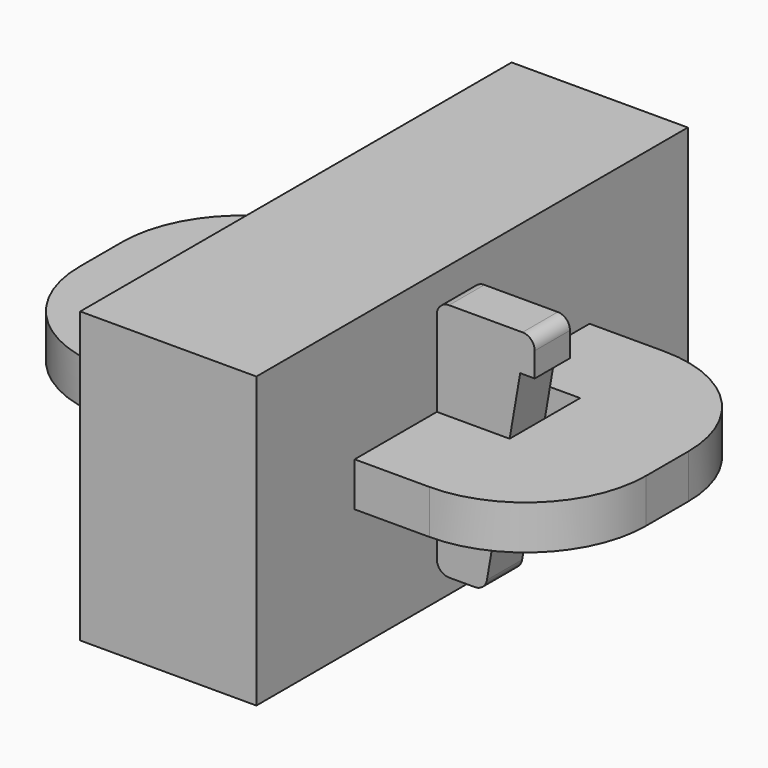
from build123d import *

# Parameters (mm, degrees)
F0_W      = 131.5
F0_H      = 36
F1_DEPTH  = 18
F3_DEPTH  = 36
F4_W      = 30.75
F4_H      = 36
F5_DEPTH  = 18
F7_DEPTH  = 25
F8_DEPTH  = 18
F9_R      = 49.2259593896
F11_DEPTH = 18


with BuildPart() as f1:
    # F0 (on Top) → F1 (new body)
    with BuildSketch(Plane.XY):
        with BuildLine():
            Line((-95.75, -60), (95.75, -60))
            ThreePointArc((95.75, -60), (131.1053390593, -45.3553390593), (145.75, -10))
            Line((145.75, -10), (145.75, 10))
            ThreePointArc((145.75, 10), (131.1053390593, 45.3553390593), (95.75, 60))
            Line((95.75, 60), (-95.75, 60))
            ThreePointArc((-95.75, 60), (-131.1053390593, 45.3553390593), (-145.75, 10))
            Line((-145.75, 10), (-145.75, -10))
            ThreePointArc((-145.75, -10), (-131.1053390593, -45.3553390593), (-95.75, -60))
        make_face()
        Rectangle(F0_W, F0_H, mode=Mode.SUBTRACT)
        with BuildLine():
            Line((-95.75, -60), (95.75, -60))
            ThreePointArc((95.75, -60), (131.1053390593, -45.3553390593), (145.75, -10))
            Line((145.75, -10), (145.75, 10))
            ThreePointArc((145.75, 10), (131.1053390593, 45.3553390593), (95.75, 60))
            Line((95.75, 60), (-95.75, 60))
            ThreePointArc((-95.75, 60), (-131.1053390593, 45.3553390593), (-145.75, 10))
            Line((-145.75, 10), (-145.75, -10))
            ThreePointArc((-145.75, -10), (-131.1053390593, -45.3553390593), (-95.75, -60))
        make_face()
        Rectangle(F0_W, F0_H, mode=Mode.SUBTRACT)
    extrude(amount=F1_DEPTH)

    # F4 (on face) → F5 (join, through all)
    with BuildSketch(Plane.XY.offset(18)):
        with Locations((-15.375, 0)):
            Rectangle(F4_W, F4_H)
        with Locations((15.375, 0)):
            Rectangle(F4_W, F4_H)
    extrude(amount=-F5_DEPTH)

    # F6 (on face) → F7 (cut)
    with BuildSketch(Plane.XY.offset(18)):
        with BuildLine():
            Line((-171.1352914572, -60), (-115.75, -60))
            Line((-115.75, -60), (-115.75, -55.8257569496))
            ThreePointArc((-115.75, -55.8257569496), (-137.5830013267, -37.3861278753), (-145.75, -10))
            Line((-145.75, -10), (-145.75, 10))
            ThreePointArc((-145.75, 10), (-137.5830013267, 37.3861278753), (-115.75, 55.8257569496))
            Line((-115.75, 55.8257569496), (-115.75, 60))
            Line((-115.75, 60), (-171.1352914572, 60))
            Line((-171.1352914572, 60), (-171.1352914572, -60))
        make_face()
        with BuildLine():
            Line((115.75, -55.8257569496), (115.75, -60))
            Line((115.75, -60), (180.9306442738, -60))
            Line((180.9306442738, -60), (180.9306442738, 60))
            Line((180.9306442738, 60), (115.75, 60))
            Line((115.75, 60), (115.75, 55.8257569496))
            ThreePointArc((115.75, 55.8257569496), (137.5830013267, 37.3861278753), (145.75, 10))
            Line((145.75, 10), (145.75, -10))
            ThreePointArc((145.75, -10), (137.5830013267, -37.3861278753), (115.75, -55.8257569496))
        make_face()
        with BuildLine():
            ThreePointArc((-145.75, -10), (-137.5830013267, -37.3861278753), (-115.75, -55.8257569496))
            Line((-115.75, -55.8257569496), (-115.75, 55.8257569496))
            ThreePointArc((-115.75, 55.8257569496), (-137.5830013267, 37.3861278753), (-145.75, 10))
            Line((-145.75, 10), (-145.75, -10))
        make_face()
        with BuildLine():
            Line((115.75, 55.8257569496), (115.75, -55.8257569496))
            ThreePointArc((115.75, -55.8257569496), (137.5830013267, -37.3861278753), (145.75, -10))
            Line((145.75, -10), (145.75, 10))
            ThreePointArc((145.75, 10), (137.5830013267, 37.3861278753), (115.75, 55.8257569496))
        make_face()
    extrude(amount=-F7_DEPTH, mode=Mode.SUBTRACT)

    # F6 (on face) → F8 (join)
    with BuildSketch(Plane.XY.offset(18)):
        with BuildLine():
            Line((-115.75, 60), (-115.75, 55.8257569496))
            ThreePointArc((-115.75, 55.8257569496), (-105.9654821845, 58.9453156465), (-95.75, 60))
            Line((-95.75, 60), (-115.75, 60))
        make_face()
        with BuildLine():
            ThreePointArc((95.75, 60), (105.9654821845, 58.9453156465), (115.75, 55.8257569496))
            Line((115.75, 55.8257569496), (115.75, 60))
            Line((115.75, 60), (95.75, 60))
        make_face()
        with BuildLine():
            ThreePointArc((115.75, -55.8257569496), (105.9654821845, -58.9453156465), (95.75, -60))
            Line((95.75, -60), (115.75, -60))
            Line((115.75, -60), (115.75, -55.8257569496))
        make_face()
        with BuildLine():
            Line((-115.75, -55.8257569496), (-115.75, -60))
            Line((-115.75, -60), (-95.75, -60))
            ThreePointArc((-95.75, -60), (-105.9654821845, -58.9453156465), (-115.75, -55.8257569496))
        make_face()
    extrude(amount=-F8_DEPTH)

    # F9
    f9_edges = [f1.edges().sort_by_distance(p)[0] for p in [
        (-115.75, 60, 9),
        (-115.75, -60, 9),
        (115.75, -60, 9),
        (115.75, 60, 9),
    ]]
    fillet(f9_edges, radius=F9_R)


with BuildPart() as f3:
    # F2 (on Right) → F3 (new body, symmetric)
    with BuildSketch(Plane.YZ):
        Polygon((110.1955026388, 68.1955026388), (10, 68.1955026388), (-10, 68.1955026388), (-110.1955026388, 68.1955026388), (-110.1955026388, -50.1955026388), (-10, -50.1955026388), (10, -50.1955026388), (110.1955026388, -50.1955026388), align=None)
        Polygon((-60, 0), (-60, 18), (-10, 18), (10, 18), (60, 18), (60, 0), (10, 0), (-10, 0), align=None, mode=Mode.SUBTRACT)
    extrude(amount=F3_DEPTH, both=True)


with BuildPart() as f11:
    # F10 (on Front) → F11 (new body)
    with BuildSketch(Plane.XZ):
        with BuildLine():
            ThreePointArc((41, 58), (37.4644660941, 56.5355339059), (36, 53))
            Line((36, 53), (36, 43))
            Line((36, 43), (36, 18))
            Line((36, 18), (65.75, 18))
            Line((65.75, 18), (70.0603448276, 43))
            Line((70.0603448276, 43), (76, 43))
            Line((76, 43), (76, 53))
            ThreePointArc((76, 53), (74.5355339059, 56.5355339059), (71, 58))
            Line((71, 58), (41, 58))
        make_face()
        with BuildLine():
            Line((65.75, 18), (36, 18))
            Line((36, 18), (36, 0))
            Line((36, 0), (36, -30))
            Line((36, -30), (36, -35))
            ThreePointArc((36, -35), (37.4644660941, -38.5355339059), (41, -40))
            Line((41, -40), (51.538296907, -40))
            ThreePointArc((51.538296907, -40), (54.7595022007, -38.8241125057), (56.4655974858, -35.8495345825))
            Line((56.4655974858, -35.8495345825), (65.75, 18))
        make_face()
    extrude(amount=F11_DEPTH)


solid = Compound([f1.part, f3.part, f11.part])
